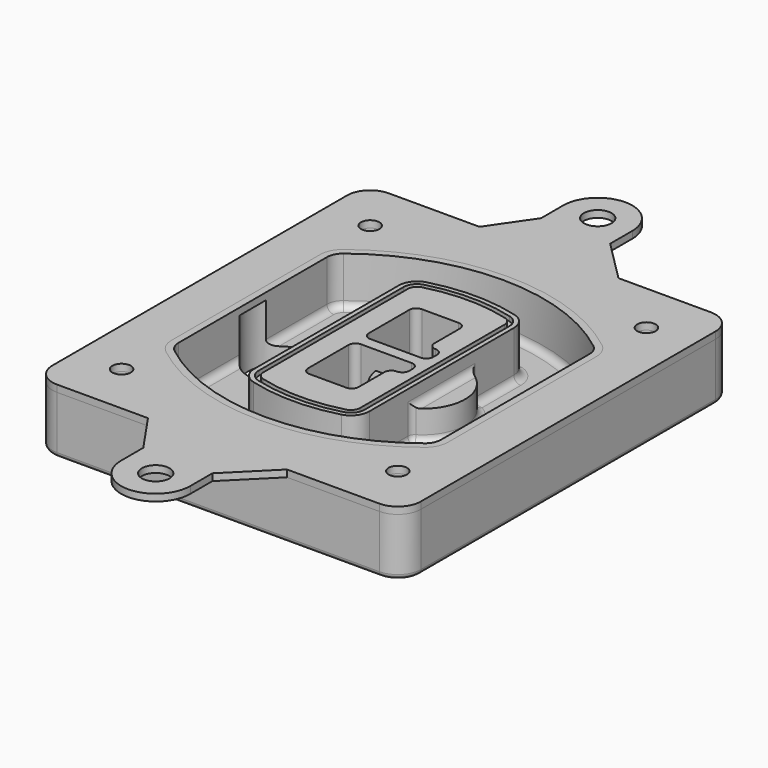
from build123d import *

# Parameters (mm, degrees)
F0_R      = 4
F1_DEPTH  = 25
F2_DEPTH  = 3
F3_DEPTH  = 18
F5_DEPTH  = 21
F6_DEPTH  = 2
F8_DEPTH  = 20
F9_DEPTH  = 16
F10_DEPTH = 25
F7_R      = 6
F7_R_2    = 4
F12_DEPTH = 6
F14_DEPTH = 9
F15_R     = 3
F16_R     = 2
F11_R     = 4
F11_R_2   = 6
F17_DEPTH = 3


with BuildPart() as f1:
    # F0 (on Top) → F1 (new body)
    with BuildSketch(Plane.XY):
        with BuildLine():
            ThreePointArc((-80, -80), (-77.0710678119, -87.0710678119), (-70, -90))
            Line((-70, -90), (70, -90))
            ThreePointArc((70, -90), (77.0710678119, -87.0710678119), (80, -80))
            Line((80, -80), (80, 80))
            ThreePointArc((80, 80), (77.0710678119, 87.0710678119), (70, 90))
            Line((70, 90), (-70, 90))
            ThreePointArc((-70, 90), (-77.0710678119, 87.0710678119), (-80, 80))
            Line((-80, 80), (-80, -80))
        make_face()
        with Locations((-60, -67.5)):
            Circle(F0_R, mode=Mode.SUBTRACT)
        with Locations((60, -67.5)):
            Circle(F0_R, mode=Mode.SUBTRACT)
        with Locations((-60, 67.5)):
            Circle(F0_R, mode=Mode.SUBTRACT)
        with BuildLine():
            ThreePointArc((-64, 40.2934422872), (-62.5820384798, 46.4328484224), (-58.6153846154, 51.3286200352))
            ThreePointArc((-58.6153846154, 51.3286200352), (0, 71.5), (58.6153846154, 51.3286200352))
            ThreePointArc((58.6153846154, 51.3286200352), (62.5820384798, 46.4328484224), (64, 40.2934422872))
            Line((64, 40.2934422872), (64, -40.2934422872))
            ThreePointArc((64, -40.2934422872), (62.5820384798, -46.4328484224), (58.6153846154, -51.3286200352))
            ThreePointArc((58.6153846154, -51.3286200352), (0, -71.5), (-58.6153846154, -51.3286200352))
            ThreePointArc((-58.6153846154, -51.3286200352), (-62.5820384798, -46.4328484224), (-64, -40.2934422872))
            Line((-64, -40.2934422872), (-64, 40.2934422872))
        make_face(mode=Mode.SUBTRACT)
        with Locations((60, 67.5)):
            Circle(F0_R, mode=Mode.SUBTRACT)
        with BuildLine():
            ThreePointArc((58.6153846154, 51.3286200352), (0, 71.5), (-58.6153846154, 51.3286200352))
            ThreePointArc((-58.6153846154, 51.3286200352), (-62.5820384798, 46.4328484224), (-64, 40.2934422872))
            Line((-64, 40.2934422872), (-64, -40.2934422872))
            ThreePointArc((-64, -40.2934422872), (-62.5820384798, -46.4328484224), (-58.6153846154, -51.3286200352))
            ThreePointArc((-58.6153846154, -51.3286200352), (0, -71.5), (58.6153846154, -51.3286200352))
            ThreePointArc((58.6153846154, -51.3286200352), (62.5820384798, -46.4328484224), (64, -40.2934422872))
            Line((64, -40.2934422872), (64, 40.2934422872))
            ThreePointArc((64, 40.2934422872), (62.5820384798, 46.4328484224), (58.6153846154, 51.3286200352))
        make_face()
        with BuildLine():
            Line((-60, -40.2934422872), (-60, 40.2934422872))
            ThreePointArc((-60, 40.2934422872), (-58.9871703427, 44.6787323838), (-56.1538461538, 48.1757121072))
            ThreePointArc((-56.1538461538, 48.1757121072), (0, 67.5), (56.1538461538, 48.1757121072))
            ThreePointArc((56.1538461538, 48.1757121072), (58.9871703427, 44.6787323838), (60, 40.2934422872))
            Line((60, 40.2934422872), (60, -40.2934422872))
            ThreePointArc((60, -40.2934422872), (58.9871703427, -44.6787323838), (56.1538461538, -48.1757121072))
            ThreePointArc((56.1538461538, -48.1757121072), (0, -67.5), (-56.1538461538, -48.1757121072))
            ThreePointArc((-56.1538461538, -48.1757121072), (-58.9871703427, -44.6787323838), (-60, -40.2934422872))
        make_face(mode=Mode.SUBTRACT)
        with BuildLine():
            ThreePointArc((-56.1538461538, 48.1757121072), (-58.9871703427, 44.6787323838), (-60, 40.2934422872))
            Line((-60, 40.2934422872), (-60, -40.2934422872))
            ThreePointArc((-60, -40.2934422872), (-58.9871703427, -44.6787323838), (-56.1538461538, -48.1757121072))
            ThreePointArc((-56.1538461538, -48.1757121072), (0, -67.5), (56.1538461538, -48.1757121072))
            ThreePointArc((56.1538461538, -48.1757121072), (58.9871703427, -44.6787323838), (60, -40.2934422872))
            Line((60, -40.2934422872), (60, 40.2934422872))
            ThreePointArc((60, 40.2934422872), (58.9871703427, 44.6787323838), (56.1538461538, 48.1757121072))
            ThreePointArc((56.1538461538, 48.1757121072), (0, 67.5), (-56.1538461538, 48.1757121072))
        make_face()
        with BuildLine():
            ThreePointArc((54.3076923077, 45.8110311612), (56.2910192399, 43.3631453548), (57, 40.2934422872))
            Line((57, 40.2934422872), (57, -40.2934422872))
            ThreePointArc((57, -40.2934422872), (56.2910192399, -43.3631453548), (54.3076923077, -45.8110311612))
            ThreePointArc((54.3076923077, -45.8110311612), (0, -64.5), (-54.3076923077, -45.8110311612))
            ThreePointArc((-54.3076923077, -45.8110311612), (-56.2910192399, -43.3631453548), (-57, -40.2934422872))
            Line((-57, -40.2934422872), (-57, 40.2934422872))
            ThreePointArc((-57, 40.2934422872), (-56.2910192399, 43.3631453548), (-54.3076923077, 45.8110311612))
            ThreePointArc((-54.3076923077, 45.8110311612), (0, 64.5), (54.3076923077, 45.8110311612))
        make_face(mode=Mode.SUBTRACT)
        with BuildLine():
            Line((57, -40.2934422872), (57, 40.2934422872))
            ThreePointArc((57, 40.2934422872), (56.2910192399, 43.3631453548), (54.3076923077, 45.8110311612))
            ThreePointArc((54.3076923077, 45.8110311612), (0, 64.5), (-54.3076923077, 45.8110311612))
            ThreePointArc((-54.3076923077, 45.8110311612), (-56.2910192399, 43.3631453548), (-57, 40.2934422872))
            Line((-57, 40.2934422872), (-57, -40.2934422872))
            ThreePointArc((-57, -40.2934422872), (-56.2910192399, -43.3631453548), (-54.3076923077, -45.8110311612))
            ThreePointArc((-54.3076923077, -45.8110311612), (0, -64.5), (54.3076923077, -45.8110311612))
            ThreePointArc((54.3076923077, -45.8110311612), (56.2910192399, -43.3631453548), (57, -40.2934422872))
        make_face()
    extrude(amount=-F1_DEPTH)

    # F0 (on Top) → F2 (join)
    with BuildSketch(Plane.XY):
        with BuildLine():
            ThreePointArc((-56.1538461538, 48.1757121072), (-58.9871703427, 44.6787323838), (-60, 40.2934422872))
            Line((-60, 40.2934422872), (-60, -40.2934422872))
            ThreePointArc((-60, -40.2934422872), (-58.9871703427, -44.6787323838), (-56.1538461538, -48.1757121072))
            ThreePointArc((-56.1538461538, -48.1757121072), (0, -67.5), (56.1538461538, -48.1757121072))
            ThreePointArc((56.1538461538, -48.1757121072), (58.9871703427, -44.6787323838), (60, -40.2934422872))
            Line((60, -40.2934422872), (60, 40.2934422872))
            ThreePointArc((60, 40.2934422872), (58.9871703427, 44.6787323838), (56.1538461538, 48.1757121072))
            ThreePointArc((56.1538461538, 48.1757121072), (0, 67.5), (-56.1538461538, 48.1757121072))
        make_face()
        with BuildLine():
            ThreePointArc((54.3076923077, 45.8110311612), (56.2910192399, 43.3631453548), (57, 40.2934422872))
            Line((57, 40.2934422872), (57, -40.2934422872))
            ThreePointArc((57, -40.2934422872), (56.2910192399, -43.3631453548), (54.3076923077, -45.8110311612))
            ThreePointArc((54.3076923077, -45.8110311612), (0, -64.5), (-54.3076923077, -45.8110311612))
            ThreePointArc((-54.3076923077, -45.8110311612), (-56.2910192399, -43.3631453548), (-57, -40.2934422872))
            Line((-57, -40.2934422872), (-57, 40.2934422872))
            ThreePointArc((-57, 40.2934422872), (-56.2910192399, 43.3631453548), (-54.3076923077, 45.8110311612))
            ThreePointArc((-54.3076923077, 45.8110311612), (0, 64.5), (54.3076923077, 45.8110311612))
        make_face(mode=Mode.SUBTRACT)
    extrude(amount=F2_DEPTH)

    # F0 (on Top) → F3 (cut)
    with BuildSketch(Plane.XY):
        with BuildLine():
            Line((57, -40.2934422872), (57, 40.2934422872))
            ThreePointArc((57, 40.2934422872), (56.2910192399, 43.3631453548), (54.3076923077, 45.8110311612))
            ThreePointArc((54.3076923077, 45.8110311612), (0, 64.5), (-54.3076923077, 45.8110311612))
            ThreePointArc((-54.3076923077, 45.8110311612), (-56.2910192399, 43.3631453548), (-57, 40.2934422872))
            Line((-57, 40.2934422872), (-57, -40.2934422872))
            ThreePointArc((-57, -40.2934422872), (-56.2910192399, -43.3631453548), (-54.3076923077, -45.8110311612))
            ThreePointArc((-54.3076923077, -45.8110311612), (0, -64.5), (54.3076923077, -45.8110311612))
            ThreePointArc((54.3076923077, -45.8110311612), (56.2910192399, -43.3631453548), (57, -40.2934422872))
        make_face()
    extrude(amount=-F3_DEPTH, mode=Mode.SUBTRACT)

    # F4 (on face) → F5 (join, through all)
    with BuildSketch(Plane.XY.offset(3)):
        with BuildLine():
            ThreePointArc((-25, -39.2465276821), (-23.3511545998, -44.1109737193), (-19.0842911877, -46.9702398883))
            ThreePointArc((-19.0842911877, -46.9702398883), (0, -49.5), (19.0842911877, -46.9702398883))
            ThreePointArc((19.0842911877, -46.9702398883), (23.3511545998, -44.1109737193), (25, -39.2465276821))
            Line((25, -39.2465276821), (25, 39.2465276821))
            ThreePointArc((25, 39.2465276821), (23.3511545998, 44.1109737193), (19.0842911877, 46.9702398883))
            ThreePointArc((19.0842911877, 46.9702398883), (0, 49.5), (-19.0842911877, 46.9702398883))
            ThreePointArc((-19.0842911877, 46.9702398883), (-23.3511545998, 44.1109737193), (-25, 39.2465276821))
            Line((-25, 39.2465276821), (-25, -39.2465276821))
        make_face()
        with BuildLine():
            ThreePointArc((18.5632183908, 45.0393118368), (21.7633659499, 42.89486221), (23, 39.2465276821))
            Line((23, 39.2465276821), (23, -39.2465276821))
            ThreePointArc((23, -39.2465276821), (21.7633659499, -42.89486221), (18.5632183908, -45.0393118368))
            ThreePointArc((18.5632183908, -45.0393118368), (0, -47.5), (-18.5632183908, -45.0393118368))
            ThreePointArc((-18.5632183908, -45.0393118368), (-21.7633659499, -42.89486221), (-23, -39.2465276821))
            Line((-23, -39.2465276821), (-23, 39.2465276821))
            ThreePointArc((-23, 39.2465276821), (-21.7633659499, 42.89486221), (-18.5632183908, 45.0393118368))
            ThreePointArc((-18.5632183908, 45.0393118368), (0, 47.5), (18.5632183908, 45.0393118368))
        make_face(mode=Mode.SUBTRACT)
        with BuildLine():
            Line((23, -39.2465276821), (23, 39.2465276821))
            ThreePointArc((23, 39.2465276821), (21.7633659499, 42.89486221), (18.5632183908, 45.0393118368))
            ThreePointArc((18.5632183908, 45.0393118368), (0, 47.5), (-18.5632183908, 45.0393118368))
            ThreePointArc((-18.5632183908, 45.0393118368), (-21.7633659499, 42.89486221), (-23, 39.2465276821))
            Line((-23, 39.2465276821), (-23, -39.2465276821))
            ThreePointArc((-23, -39.2465276821), (-21.7633659499, -42.89486221), (-18.5632183908, -45.0393118368))
            ThreePointArc((-18.5632183908, -45.0393118368), (0, -47.5), (18.5632183908, -45.0393118368))
            ThreePointArc((18.5632183908, -45.0393118368), (21.7633659499, -42.89486221), (23, -39.2465276821))
        make_face()
        with BuildLine():
            ThreePointArc((18.0421455939, 43.1083837852), (20.1755772999, 41.6787507007), (21, 39.2465276821))
            Line((21, 39.2465276821), (21, -39.2465276821))
            ThreePointArc((21, -39.2465276821), (20.1755772999, -41.6787507007), (18.0421455939, -43.1083837852))
            ThreePointArc((18.0421455939, -43.1083837852), (0, -45.5), (-18.0421455939, -43.1083837852))
            ThreePointArc((-18.0421455939, -43.1083837852), (-20.1755772999, -41.6787507007), (-21, -39.2465276821))
            Line((-21, -39.2465276821), (-21, 39.2465276821))
            ThreePointArc((-21, 39.2465276821), (-20.1755772999, 41.6787507007), (-18.0421455939, 43.1083837852))
            ThreePointArc((-18.0421455939, 43.1083837852), (0, 45.5), (18.0421455939, 43.1083837852))
        make_face(mode=Mode.SUBTRACT)
        with BuildLine():
            Line((21, -39.2465276821), (21, 39.2465276821))
            ThreePointArc((21, 39.2465276821), (20.1755772999, 41.6787507007), (18.0421455939, 43.1083837852))
            ThreePointArc((18.0421455939, 43.1083837852), (0, 45.5), (-18.0421455939, 43.1083837852))
            ThreePointArc((-18.0421455939, 43.1083837852), (-20.1755772999, 41.6787507007), (-21, 39.2465276821))
            Line((-21, 39.2465276821), (-21, -39.2465276821))
            ThreePointArc((-21, -39.2465276821), (-20.1755772999, -41.6787507007), (-18.0421455939, -43.1083837852))
            ThreePointArc((-18.0421455939, -43.1083837852), (0, -45.5), (18.0421455939, -43.1083837852))
            ThreePointArc((18.0421455939, -43.1083837852), (20.1755772999, -41.6787507007), (21, -39.2465276821))
        make_face()
        with BuildLine():
            Line((-8, -2.5), (14, -2.5))
            ThreePointArc((14, -2.5), (16.1213203436, -3.3786796564), (17, -5.5))
            Line((17, -5.5), (17, -7.5))
            ThreePointArc((17, -7.5), (16.1213203436, -9.6213203436), (14, -10.5))
            ThreePointArc((14, -10.5), (11.8786796564, -11.3786796564), (11, -13.5))
            Line((11, -13.5), (11, -27.5))
            ThreePointArc((11, -27.5), (10.1213203436, -29.6213203436), (8, -30.5))
            Line((8, -30.5), (-8, -30.5))
            ThreePointArc((-8, -30.5), (-10.1213203436, -29.6213203436), (-11, -27.5))
            Line((-11, -27.5), (-11, -5.5))
            ThreePointArc((-11, -5.5), (-10.1213203436, -3.3786796564), (-8, -2.5))
        make_face(mode=Mode.SUBTRACT)
        with BuildLine():
            ThreePointArc((-8, 2.5), (-10.1213203436, 3.3786796564), (-11, 5.5))
            Line((-11, 5.5), (-11, 27.5))
            ThreePointArc((-11, 27.5), (-10.1213203436, 29.6213203436), (-8, 30.5))
            Line((-8, 30.5), (8, 30.5))
            ThreePointArc((8, 30.5), (10.1213203436, 29.6213203436), (11, 27.5))
            Line((11, 27.5), (11, 13.5))
            ThreePointArc((11, 13.5), (11.8786796564, 11.3786796564), (14, 10.5))
            ThreePointArc((14, 10.5), (16.1213203436, 9.6213203436), (17, 7.5))
            Line((17, 7.5), (17, 5.5))
            ThreePointArc((17, 5.5), (16.1213203436, 3.3786796564), (14, 2.5))
            Line((14, 2.5), (-8, 2.5))
        make_face(mode=Mode.SUBTRACT)
    extrude(amount=-F5_DEPTH)

    # F4 (on face) → F6 (cut)
    with BuildSketch(Plane.XY.offset(3)):
        with BuildLine():
            Line((23, -39.2465276821), (23, 39.2465276821))
            ThreePointArc((23, 39.2465276821), (21.7633659499, 42.89486221), (18.5632183908, 45.0393118368))
            ThreePointArc((18.5632183908, 45.0393118368), (0, 47.5), (-18.5632183908, 45.0393118368))
            ThreePointArc((-18.5632183908, 45.0393118368), (-21.7633659499, 42.89486221), (-23, 39.2465276821))
            Line((-23, 39.2465276821), (-23, -39.2465276821))
            ThreePointArc((-23, -39.2465276821), (-21.7633659499, -42.89486221), (-18.5632183908, -45.0393118368))
            ThreePointArc((-18.5632183908, -45.0393118368), (0, -47.5), (18.5632183908, -45.0393118368))
            ThreePointArc((18.5632183908, -45.0393118368), (21.7633659499, -42.89486221), (23, -39.2465276821))
        make_face()
        with BuildLine():
            ThreePointArc((18.0421455939, 43.1083837852), (20.1755772999, 41.6787507007), (21, 39.2465276821))
            Line((21, 39.2465276821), (21, -39.2465276821))
            ThreePointArc((21, -39.2465276821), (20.1755772999, -41.6787507007), (18.0421455939, -43.1083837852))
            ThreePointArc((18.0421455939, -43.1083837852), (0, -45.5), (-18.0421455939, -43.1083837852))
            ThreePointArc((-18.0421455939, -43.1083837852), (-20.1755772999, -41.6787507007), (-21, -39.2465276821))
            Line((-21, -39.2465276821), (-21, 39.2465276821))
            ThreePointArc((-21, 39.2465276821), (-20.1755772999, 41.6787507007), (-18.0421455939, 43.1083837852))
            ThreePointArc((-18.0421455939, 43.1083837852), (0, 45.5), (18.0421455939, 43.1083837852))
        make_face(mode=Mode.SUBTRACT)
    extrude(amount=-F6_DEPTH, mode=Mode.SUBTRACT)

    # F7 (on face) → F8 (join)
    with BuildSketch(Plane(origin=(0, 0, -25), x_dir=(1, 0, 0), z_dir=(0, 0, -1))):
        with BuildLine():
            ThreePointArc((3.28842436, 0), (16.7567035675, 13.4682792075), (30.224982775, 0))
            Line((30.224982775, 0), (35.224982775, 0))
            ThreePointArc((35.224982775, 0), (16.7567035675, 18.4682792075), (-1.71157564, 0))
            Line((-1.71157564, 0), (3.28842436, 0))
        make_face()
        with BuildLine():
            Line((3.28842436, 0), (30.224982775, 0))
            ThreePointArc((30.224982775, 0), (16.7567035675, 13.4682792075), (3.28842436, 0))
        make_face()
        with BuildLine():
            ThreePointArc((3.28842436, 0), (16.7567035675, -13.4682792075), (30.224982775, 0))
            Line((30.224982775, 0), (3.28842436, 0))
        make_face()
        with BuildLine():
            Line((35.224982775, 0), (30.224982775, 0))
            ThreePointArc((30.224982775, 0), (16.7567035675, -13.4682792075), (3.28842436, 0))
            Line((3.28842436, 0), (-1.71157564, 0))
            ThreePointArc((-1.71157564, 0), (16.7567035675, -18.4682792075), (35.224982775, 0))
        make_face()
    extrude(amount=-F8_DEPTH)

    # F7 (on face) → F9 (cut)
    with BuildSketch(Plane(origin=(0, 0, -25), x_dir=(1, 0, 0), z_dir=(0, 0, -1))):
        with BuildLine():
            Line((3.28842436, 0), (30.224982775, 0))
            ThreePointArc((30.224982775, 0), (16.7567035675, 13.4682792075), (3.28842436, 0))
        make_face()
        with BuildLine():
            ThreePointArc((3.28842436, 0), (16.7567035675, -13.4682792075), (30.224982775, 0))
            Line((30.224982775, 0), (3.28842436, 0))
        make_face()
    extrude(amount=-F9_DEPTH, mode=Mode.SUBTRACT)

    # F7 (on face) → F10 (cut)
    with BuildSketch(Plane(origin=(0, 0, -25), x_dir=(1, 0, 0), z_dir=(0, 0, -1))):
        with BuildLine():
            Line((-59.0318229325, 0), (-32.0952645175, 0))
            ThreePointArc((-32.0952645175, 0), (-45.563543725, 13.4682792075), (-59.0318229325, 0))
        make_face()
        with BuildLine():
            ThreePointArc((-59.0318229325, 0), (-45.563543725, -13.4682792075), (-32.0952645175, 0))
            Line((-32.0952645175, 0), (-59.0318229325, 0))
        make_face()
    extrude(amount=-F10_DEPTH, mode=Mode.SUBTRACT)

    # F7 (on face) → F12 (cut)
    with BuildSketch(Plane(origin=(0, 0, -25), x_dir=(1, 0, 0), z_dir=(0, 0, -1))):
        with Locations((60, -67.5)):
            Circle(F7_R)
        with Locations((60, -67.5)):
            Circle(F7_R_2, mode=Mode.SUBTRACT)
        with Locations((60, -67.5)):
            Circle(F7_R)
        with Locations((60, -67.5)):
            Circle(F7_R_2, mode=Mode.SUBTRACT)
        with Locations((-60, -67.5)):
            Circle(F7_R)
        with Locations((-60, -67.5)):
            Circle(F7_R_2, mode=Mode.SUBTRACT)
        with Locations((-60, -67.5)):
            Circle(F7_R)
        with Locations((-60, -67.5)):
            Circle(F7_R_2, mode=Mode.SUBTRACT)
        with Locations((-60, 67.5)):
            Circle(F7_R)
        with Locations((-60, 67.5)):
            Circle(F7_R_2, mode=Mode.SUBTRACT)
        with Locations((-60, 67.5)):
            Circle(F7_R)
        with Locations((-60, 67.5)):
            Circle(F7_R_2, mode=Mode.SUBTRACT)
        with Locations((60, 67.5)):
            Circle(F7_R)
        with Locations((60, 67.5)):
            Circle(F7_R_2, mode=Mode.SUBTRACT)
        with Locations((60, 67.5)):
            Circle(F7_R)
        with Locations((60, 67.5)):
            Circle(F7_R_2, mode=Mode.SUBTRACT)
    extrude(amount=-F12_DEPTH, mode=Mode.SUBTRACT)

    # F13 (on face) → F14 (cut, through all)
    with BuildSketch(Plane(origin=(0, 0, -9), x_dir=(1, 0, 0), z_dir=(0, 0, -1))):
        with BuildLine():
            Line((11, 13.5), (11, 17.5481537753))
            ThreePointArc((11, 17.5481537753), (2.5696536419, 11.8239143813), (-1.5415842455, 2.5))
            Line((-1.5415842455, 2.5), (3.5224848595, 2.5))
            ThreePointArc((3.5224848595, 2.5), (6.1857188154, 8.3455872281), (11.2536447004, 12.2927168648))
            ThreePointArc((11.2536447004, 12.2927168648), (11.0640958889, 12.8831798879), (11, 13.5))
        make_face()
        with BuildLine():
            ThreePointArc((11.2536447004, -12.2927168648), (6.1857188154, -8.3455872281), (3.5224848595, -2.5))
            Line((3.5224848595, -2.5), (-1.5415842455, -2.5))
            ThreePointArc((-1.5415842455, -2.5), (2.5696536419, -11.8239143813), (11, -17.5481537753))
            Line((11, -17.5481537753), (11, -13.5))
            ThreePointArc((11, -13.5), (11.0640958889, -12.8831798879), (11.2536447004, -12.2927168648))
        make_face()
        with BuildLine():
            ThreePointArc((11.2536447004, 12.2927168648), (6.1857188154, 8.3455872281), (3.5224848595, 2.5))
            Line((3.5224848595, 2.5), (14, 2.5))
            ThreePointArc((14, 2.5), (16.1213203436, 3.3786796564), (17, 5.5))
            Line((17, 5.5), (17, 7.5))
            ThreePointArc((17, 7.5), (16.1213203436, 9.6213203436), (14, 10.5))
            ThreePointArc((14, 10.5), (12.3601599782, 10.9878446101), (11.2536447004, 12.2927168648))
        make_face()
        with BuildLine():
            Line((14, -2.5), (3.5224848595, -2.5))
            ThreePointArc((3.5224848595, -2.5), (6.1857188154, -8.3455872281), (11.2536447004, -12.2927168648))
            ThreePointArc((11.2536447004, -12.2927168648), (12.3601599782, -10.9878446101), (14, -10.5))
            ThreePointArc((14, -10.5), (16.1213203436, -9.6213203436), (17, -7.5))
            Line((17, -7.5), (17, -5.5))
            ThreePointArc((17, -5.5), (16.1213203436, -3.3786796564), (14, -2.5))
        make_face()
    extrude(amount=F14_DEPTH, mode=Mode.SUBTRACT)

    # F15
    f15_edges = [f1.edges().sort_by_distance(p)[0] for p in [
        (-57, -23.703476, -18),
        (-57, 23.703476, -18),
        (25, 0, -5),
        (25, 16.526506, -11.5),
        (25, -16.526506, -11.5),
        (25, -27.886517, -18),
        (35.224983, 0, -18),
    ]]
    fillet(f15_edges, radius=F15_R)

    # F16
    f16_edges = [f1.edges().sort_by_distance(p)[0] for p in [
        (0, -90, -25),
    ]]
    fillet(f16_edges, radius=F16_R)


with BuildPart() as f17:
    # F11 (on face) → F17 (new body, through all)
    with BuildSketch(Plane.XY):
        with BuildLine():
            Line((29.8405203059, 90), (-30.5333267897, 90))
            Line((-30.5333267897, 90), (-70, 90))
            ThreePointArc((-70, 90), (-77.0710678119, 87.0710678119), (-80, 80))
            Line((-80, 80), (-80, -80))
            ThreePointArc((-80, -80), (-77.0710678119, -87.0710678119), (-70, -90))
            Line((-70, -90), (-30.5333267897, -90))
            Line((-30.5333267897, -90), (29.8405203059, -90))
            Line((29.8405203059, -90), (70, -90))
            ThreePointArc((70, -90), (77.0710678119, -87.0710678119), (80, -80))
            Line((80, -80), (80, 80))
            ThreePointArc((80, 80), (77.0710678119, 87.0710678119), (70, 90))
            Line((70, 90), (29.8405203059, 90))
        make_face()
        with Locations((-60, -67.5)):
            Circle(F11_R, mode=Mode.SUBTRACT)
        with Locations((60, -67.5)):
            Circle(F11_R, mode=Mode.SUBTRACT)
        with Locations((-60, 67.5)):
            Circle(F11_R, mode=Mode.SUBTRACT)
        with BuildLine():
            ThreePointArc((-60, 40.2934422872), (-58.9871703427, 44.6787323838), (-56.1538461538, 48.1757121072))
            ThreePointArc((-56.1538461538, 48.1757121072), (0, 67.5), (56.1538461538, 48.1757121072))
            ThreePointArc((56.1538461538, 48.1757121072), (58.9871703427, 44.6787323838), (60, 40.2934422872))
            Line((60, 40.2934422872), (60, -40.2934422872))
            ThreePointArc((60, -40.2934422872), (58.9871703427, -44.6787323838), (56.1538461538, -48.1757121072))
            ThreePointArc((56.1538461538, -48.1757121072), (0, -67.5), (-56.1538461538, -48.1757121072))
            ThreePointArc((-56.1538461538, -48.1757121072), (-58.9871703427, -44.6787323838), (-60, -40.2934422872))
            Line((-60, -40.2934422872), (-60, 40.2934422872))
        make_face(mode=Mode.SUBTRACT)
        with Locations((60, 67.5)):
            Circle(F11_R, mode=Mode.SUBTRACT)
        with BuildLine():
            Line((-18.1594796941, 108), (-30.5333267897, 90))
            Line((-30.5333267897, 90), (29.8405203059, 90))
            Line((29.8405203059, 90), (11.8405203059, 108))
            Line((11.8405203059, 108), (11.8405203059, 120))
            ThreePointArc((11.8405203059, 120), (-3.1594796941, 135), (-18.1594796941, 120))
            Line((-18.1594796941, 120), (-18.1594796941, 108))
        make_face()
        with Locations((-3.1594796941, 120)):
            Circle(F11_R_2, mode=Mode.SUBTRACT)
        with BuildLine():
            Line((29.8405203059, -90), (-30.5333267897, -90))
            Line((-30.5333267897, -90), (-18.1594796941, -108))
            Line((-18.1594796941, -108), (-18.1594796941, -120))
            ThreePointArc((-18.1594796941, -120), (-3.1594796941, -135), (11.8405203059, -120))
            Line((11.8405203059, -120), (11.8405203059, -108))
            Line((11.8405203059, -108), (29.8405203059, -90))
        make_face()
        with Locations((-3.1594796941, -120)):
            Circle(F11_R_2, mode=Mode.SUBTRACT)
    extrude(amount=F17_DEPTH)


solid = Compound([f1.part, f17.part])
